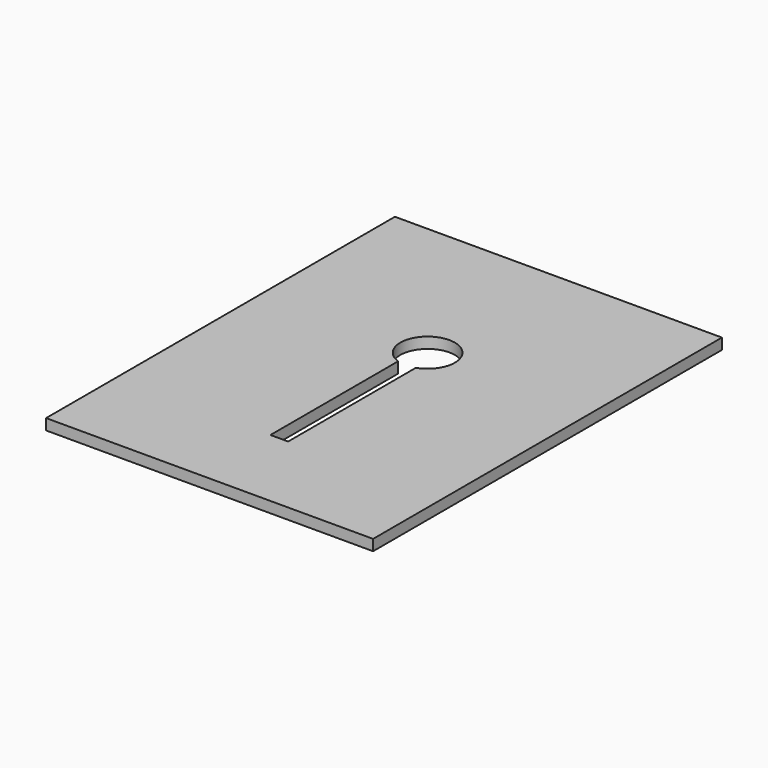
from build123d import *

# Parameters (mm, degrees)
SKETCH_W  = 60
SKETCH_H  = 80
PAD_DEPTH = 2


with BuildPart() as part:
    # Sketch → Pad (new body)
    with BuildSketch(Plane.XY.offset(32)):
        Rectangle(SKETCH_W, SKETCH_H)
        with BuildLine():
            ThreePointArc((1.623618, 5.270955), (0, 15), (-1.623618, 5.270955))
            Line((-1.623618, -24.016518), (-1.623618, 5.270955))
            Line((1.623618, -24.016518), (-1.623618, -24.016518))
            Line((1.623618, 5.270955), (1.623618, -24.016518))
        make_face(mode=Mode.SUBTRACT)
    extrude(amount=PAD_DEPTH)


solid = part.part
